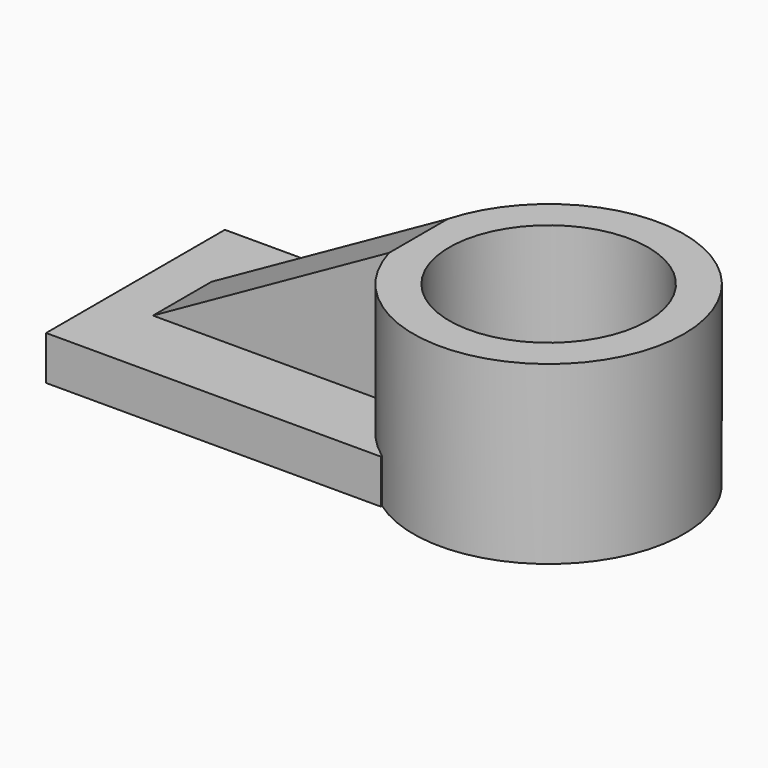
from build123d import *

# Parameters (mm, degrees)
F0_W     = 96.6246202588
F0_H     = 64.4804909825
F1_DEPTH = 12.7
F2_R     = 39.0357793673
F3_DEPTH = 50.8
F4_R     = 28.6832588226
F5_DEPTH = 94.996
F7_DEPTH = 38.1
F9_DEPTH = 72.898


with BuildPart() as f1:
    # F0 (on Top) → F1 (new body)
    with BuildSketch(Plane.XY):
        Rectangle(F0_W, F0_H)
    extrude(amount=F1_DEPTH)

    # F2 (on Top) → F3 (join)
    with BuildSketch(Plane.XY):
        with Locations((70.9010735154, 0)):
            Circle(F2_R)
    extrude(amount=F3_DEPTH)

    # F4 (on face) → F5 (cut)
    with BuildSketch(Plane.XY.offset(50.8)):
        with Locations((70.9010735154, 0)):
            Circle(F4_R)
    extrude(amount=-F5_DEPTH, mode=Mode.SUBTRACT)

    # F6 (on face) → F7 (join)
    with BuildSketch(Plane.XY.offset(12.7)):
        with BuildLine():
            Line((33.3239030226, 10.5711081997), (-34.8241180182, 10.5711081997))
            Line((-34.8241180182, 10.5711081997), (-34.8241180182, -10.5711081997))
            Line((-34.8241180182, -10.5711081997), (33.3239030226, -10.5711081997))
            ThreePointArc((33.3239030226, -10.5711081997), (31.8652941481, 0), (33.3239030226, 10.5711081997))
        make_face()
    extrude(amount=F7_DEPTH)

    # F8 (on face) → F9 (cut)
    with BuildSketch(Plane.XZ.offset(10.5711081997)):
        Polygon((-34.8241180182, 12.7), (33.3239030226, 50.8), (-34.8241180182, 50.8), align=None)
    extrude(amount=-F9_DEPTH, mode=Mode.SUBTRACT)


solid = f1.part
